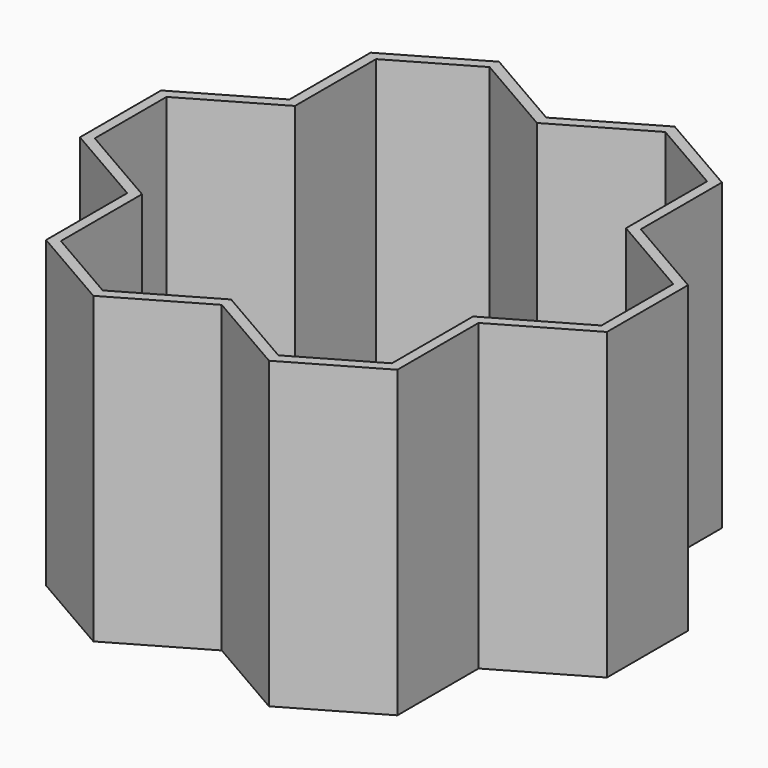
from build123d import *

# Parameters (mm, degrees)
F1_DEPTH = 76.2
F2_T     = -2.54


with BuildPart() as f1:
    # F0 (on Top) → F1 (new body)
    with BuildSketch(Plane.XY):
        Polygon((43.9940905122, 25.4), (21.9970452561, 12.7), (21.9970452561, -12.7), (43.9940905122, -25.4), (65.9911357684, -12.7), (65.9911357684, 12.7), align=None)
        Polygon((0, 25.4), (21.9970452561, 12.7), (43.9940905122, 25.4), (43.994090537, 50.8000000143), (21.9970452561, 63.5000000285), (-2.47e-08, 50.8000000143), align=None)
        Polygon((43.9940905122, -25.4), (21.9970452561, -12.7), (0, -25.4), (0, -50.8), (21.9970452561, -63.5), (43.9940905122, -50.8), align=None)
        Polygon((-21.9970452561, 12.7), (0, 25.4), (0, 50.8), (-21.9970452561, 63.5), (-43.9940905122, 50.8), (-43.9940905122, 25.4), align=None)
        Polygon((0, -50.8), (0, -25.4), (-21.9970452561, -12.7), (-43.9940905122, -25.4), (-43.9940905122, -50.8), (-21.9970452561, -63.5), align=None)
        Polygon((-21.9970452561, -12.7), (-21.9970452561, 12.7), (-43.9940905122, 25.4), (-65.9911357684, 12.7), (-65.9911357684, -12.7), (-43.9940905122, -25.4), align=None)
        Polygon((21.9970452561, -12.7), (21.9970452561, 12.7), (0, 25.4), (-21.9970452561, 12.7), (-21.9970452561, -12.7), (0, -25.4), align=None)
    extrude(amount=F1_DEPTH)

    # F2
    f2_openings = [f1.faces().sort_by_distance(p)[0] for p in [
        (0, 0, 76.2),
    ]]
    offset(amount=F2_T, openings=f2_openings, kind=Kind.INTERSECTION)


solid = f1.part
